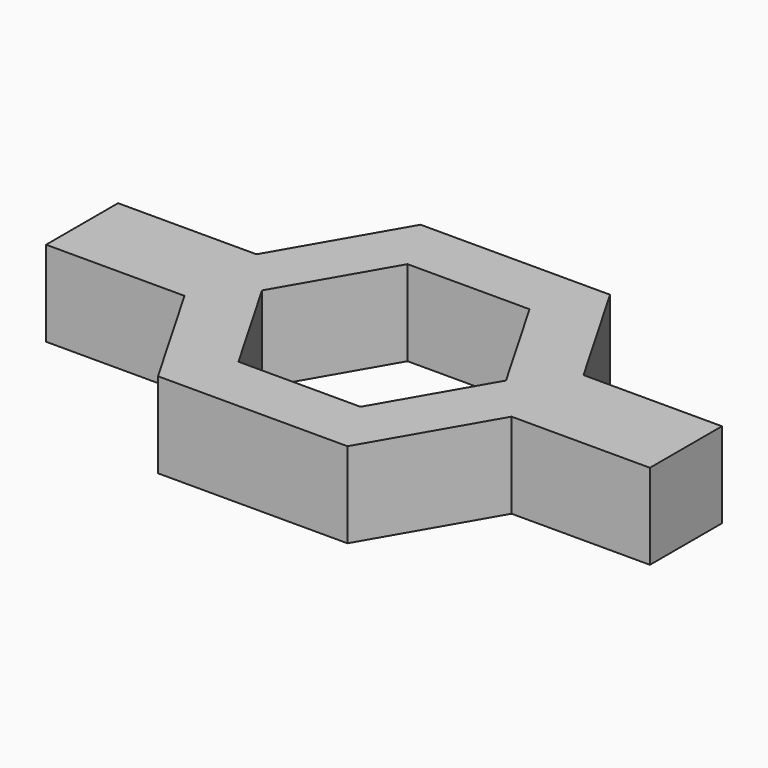
from build123d import *

# Parameters (mm, degrees)
PAD_DEPTH            = 10
PAD002_DEPTH         = 26.85
POCKET_DEPTH         = 0.001
POCKET_DEPTH_BACK    = -14.001
SKETCH004_W          = 82.61631
SKETCH004_H          = 35.698411
SKETCH004_W_2        = 63.407177
SKETCH004_H_2        = 9.483432
POCKET001_DEPTH      = 14.593528
POCKET001_DEPTH_BACK = -14.593528


with BuildPart() as part:
    # Sketch → Pad (new body)
    with BuildSketch(Plane.XY):
        Polygon((16.85, 0), (8.425, 14.592528), (-8.425, 14.592528), (-16.85, 0), (-8.425, -14.592528), (8.425, -14.592528), align=None)
        Polygon((10.85, 0), (5.425, 9.396376), (-5.425, 9.396376), (-10.85, 0), (-5.425, -9.396376), (5.425, -9.396376), align=None, mode=Mode.SUBTRACT)
    extrude(amount=PAD_DEPTH)

    # Sketch002 → Pad002 (join, symmetric)
    with BuildSketch(Plane.YZ):
        with BuildLine():
            ThreePointArc((4, 10), (0, 14), (-4, 10))
            Line((-4, 10), (-4, 0))
            Line((-4, 0), (4, 0))
            Line((4, 0), (4, 10))
        make_face()
    extrude(amount=PAD002_DEPTH, both=True)

    # Sketch003 → Pocket (cut, two sides)
    with BuildSketch(Plane.XY) as pocket_sk:
        Polygon((10.85, 0), (5.425, 9.396376), (-5.425, 9.396376), (-10.85, 0), (-5.425, -9.396376), (5.425, -9.396376), align=None)
    extrude(amount=-POCKET_DEPTH, mode=Mode.SUBTRACT)
    extrude(pocket_sk.sketch, amount=-POCKET_DEPTH_BACK, mode=Mode.SUBTRACT)

    # Sketch004 → Pocket001 (cut, two sides)
    with BuildSketch(Plane.XZ) as pocket001_sk:
        with Locations((0.841957, 8.089457)):
            Rectangle(SKETCH004_W, SKETCH004_H)
        with Locations((-0.35511, 2.858284)):
            Rectangle(SKETCH004_W_2, SKETCH004_H_2, mode=Mode.SUBTRACT)
    extrude(amount=-POCKET001_DEPTH, mode=Mode.SUBTRACT)
    extrude(pocket001_sk.sketch, amount=-POCKET001_DEPTH_BACK, mode=Mode.SUBTRACT)


solid = part.part
